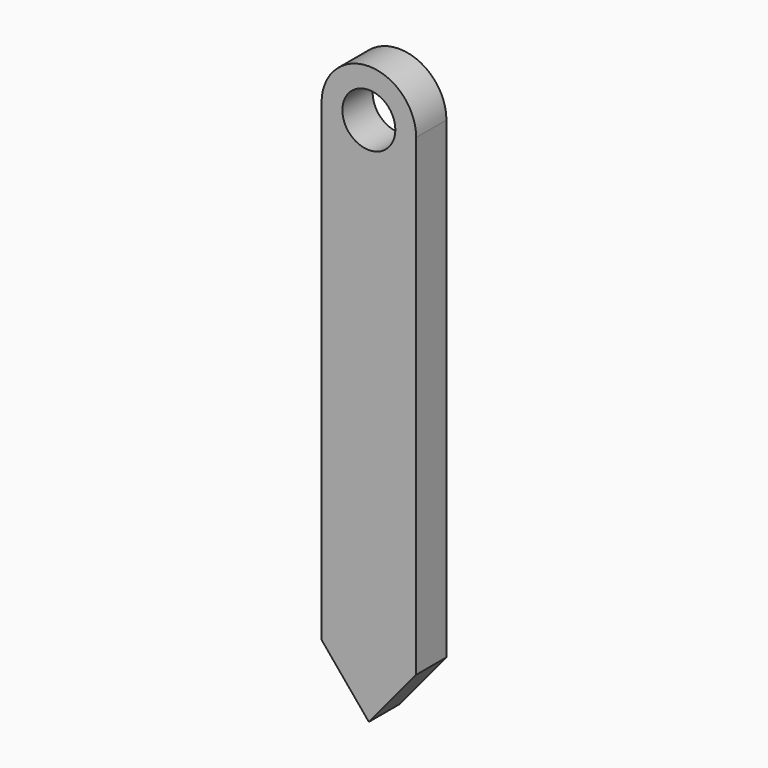
from build123d import *

# Parameters (mm, degrees)
F0_R     = 2.8
F1_DEPTH = 4


with BuildPart() as f1:
    # F0 (on Front) → F1 (new body)
    with BuildSketch(Plane.XZ):
        with BuildLine():
            ThreePointArc((-5, 0), (0, -5), (5, 0))
            ThreePointArc((5, 0), (0, 5), (-5, 0))
        make_face()
        Circle(F0_R, mode=Mode.SUBTRACT)
        with BuildLine():
            Line((5, -50), (5, 0))
            ThreePointArc((5, 0), (0, -5), (-5, 0))
            Line((-5, 0), (-5, -50))
            Line((-5, -50), (0, -56.011356))
            Line((0, -56.011356), (5, -50))
        make_face()
    extrude(amount=F1_DEPTH)


solid = f1.part
